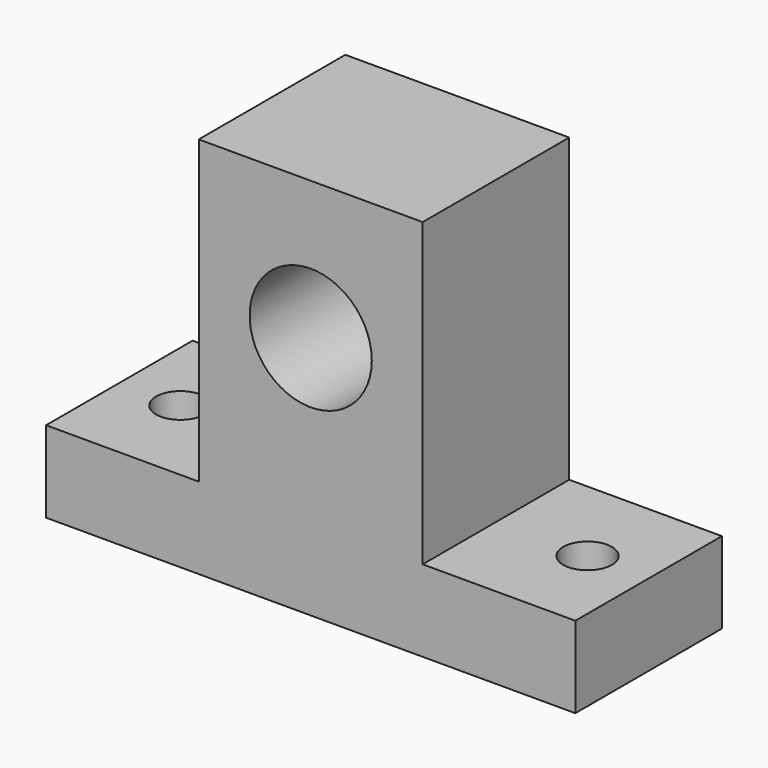
from build123d import *

# Parameters (mm, degrees)
F0_W     = 17.4625
F0_H     = 23.495
F0_R     = 4.7625
F1_DEPTH = 14.2875
F3_D     = 3.7973


with BuildPart() as f1:
    # F0 (on Front) → F1 (new body)
    with BuildSketch(Plane.XZ):
        with Locations((0, 14.9225)):
            Rectangle(F0_W, F0_H)
        with Locations((0, 15.875)):
            Circle(F0_R, mode=Mode.SUBTRACT)
        Polygon((20.6375, -3.175), (20.6375, 3.175), (8.73125, 3.175), (-8.73125, 3.175), (-20.6375, 3.175), (-20.6375, -3.175), align=None)
    extrude(amount=F1_DEPTH)

    # F3 (through all)
    with Locations(Plane(origin=(0, 0, -3.175), x_dir=(1, 0, 0), z_dir=(0, 0, -1))):
        with Locations((-15.875, 7.14375), (15.875, 7.14375)):
            Hole(F3_D / 2)


solid = f1.part
